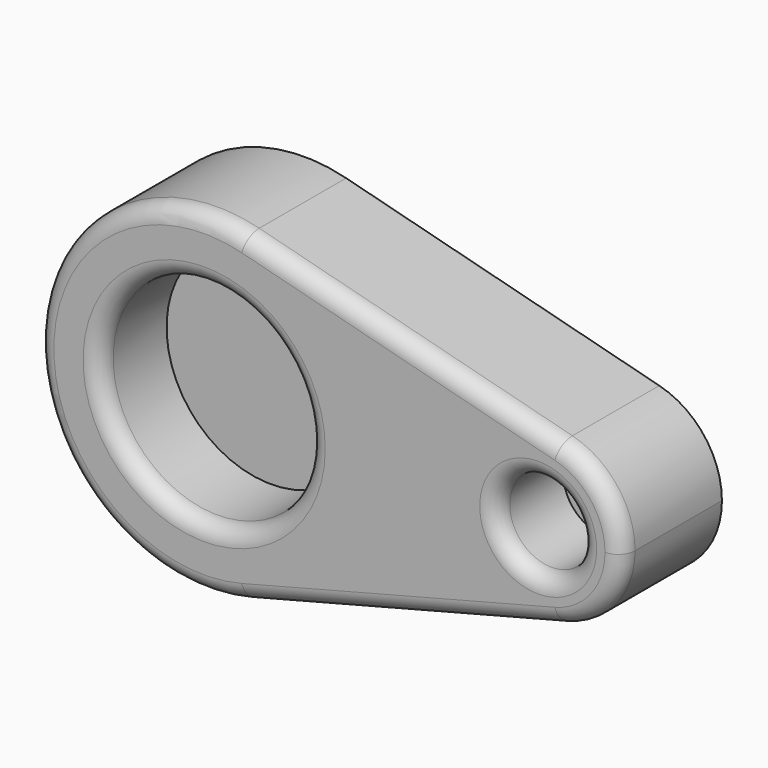
from build123d import *

# Parameters (mm, degrees)
F0_DEPTH = 38.1
F1_R     = 31.75
F1_R_2   = 12.7
F4_DEPTH = 25.4
F2_R     = 5.08


with BuildPart() as f0:
    # F3 (on Front) → F0 (new body)
    with BuildSketch(Plane.XZ):
        with BuildLine():
            ThreePointArc((12.7, 49.186888), (40.160926, 31.10852), (50.8, 0))
            ThreePointArc((50.8, 0), (40.160926, -31.10852), (12.7, -49.186888))
            Line((12.7, -49.186888), (107.95, -24.593444))
            ThreePointArc((107.95, -24.593444), (76.2, 0), (107.95, 24.593444))
            Line((107.95, 24.593444), (12.7, 49.186888))
        make_face()
        with BuildLine():
            ThreePointArc((12.7, -49.186888), (40.160926, -31.10852), (50.8, 0))
            ThreePointArc((50.8, 0), (40.160926, 31.10852), (12.7, 49.186888))
            ThreePointArc((12.7, 49.186888), (-50.8, 0), (12.7, -49.186888))
        make_face()
        with BuildLine():
            ThreePointArc((127, 0), (121.680463, 15.55426), (107.95, 24.593444))
            ThreePointArc((107.95, 24.593444), (76.2, 0), (107.95, -24.593444))
            ThreePointArc((107.95, -24.593444), (121.680463, -15.55426), (127, 0))
        make_face()
    extrude(amount=F0_DEPTH)

    # F1 (on face) → F4 (cut)
    with BuildSketch(Plane.XZ.offset(38.1)):
        Circle(F1_R)
        with Locations((101.6, 0)):
            Circle(F1_R_2)
    extrude(amount=-F4_DEPTH, mode=Mode.SUBTRACT)

    # F2
    f2_edges = [f0.edges().sort_by_distance(p)[0] for p in [
        (-31.75, -38.1, 0),
        (88.9, -38.1, 0),
        (60.325, -38.1, 36.890166),
    ]]
    fillet(f2_edges, radius=F2_R)


solid = f0.part
